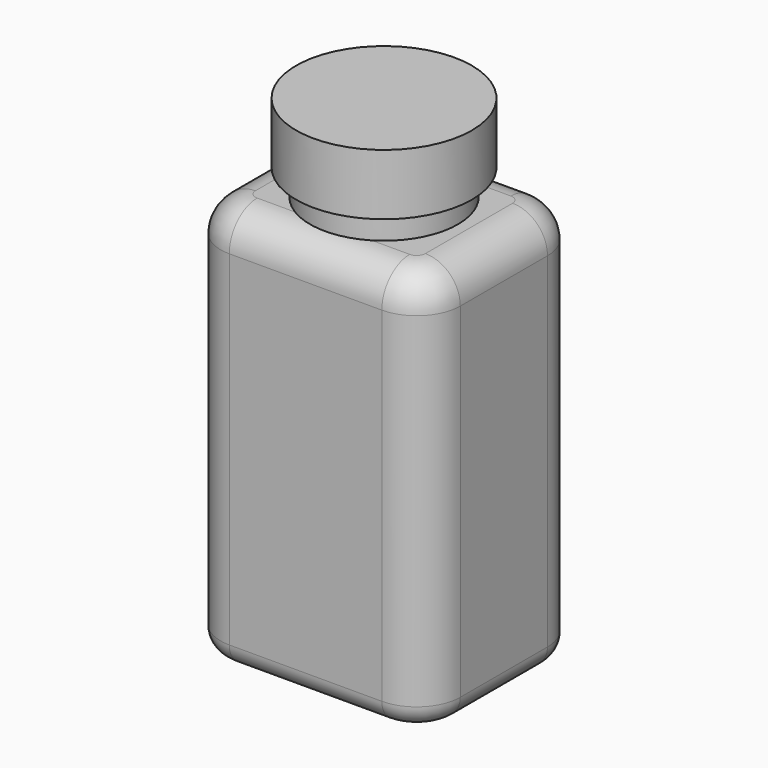
from build123d import *

# Parameters (mm, degrees)
F1_DEPTH = 55.626
F2_R     = 5.08
F3_DEPTH = 2.794
F4_R     = 3.175
F5_R     = 10.770919
F6_DEPTH = 3.81
F7_R     = 12.796254
F8_DEPTH = 8.89


with BuildPart() as f1:
    # F0 (on Top) → F1 (new body)
    with BuildSketch(Plane.XY):
        with BuildLine():
            ThreePointArc((-17.4625, -7.9375), (-15.602628, -12.427628), (-11.1125, -14.2875))
            Line((-11.1125, -14.2875), (11.1125, -14.2875))
            ThreePointArc((11.1125, -14.2875), (15.602628, -12.427628), (17.4625, -7.9375))
            Line((17.4625, -7.9375), (17.4625, 7.9375))
            ThreePointArc((17.4625, 7.9375), (15.602628, 12.427628), (11.1125, 14.2875))
            Line((11.1125, 14.2875), (-11.1125, 14.2875))
            ThreePointArc((-11.1125, 14.2875), (-15.602628, 12.427628), (-17.4625, 7.9375))
            Line((-17.4625, 7.9375), (-17.4625, -7.9375))
        make_face()
    extrude(amount=F1_DEPTH)

    # F2
    f2_edges = [f1.edges().sort_by_distance(p)[0] for p in [
        (15.602628, -12.427628, 55.626),
    ]]
    fillet(f2_edges, radius=F2_R)

    # F0 (on Top) → F3 (join)
    with BuildSketch(Plane.XY):
        with BuildLine():
            ThreePointArc((-17.4625, -7.9375), (-15.602628, -12.427628), (-11.1125, -14.2875))
            Line((-11.1125, -14.2875), (11.1125, -14.2875))
            ThreePointArc((11.1125, -14.2875), (15.602628, -12.427628), (17.4625, -7.9375))
            Line((17.4625, -7.9375), (17.4625, 7.9375))
            ThreePointArc((17.4625, 7.9375), (15.602628, 12.427628), (11.1125, 14.2875))
            Line((11.1125, 14.2875), (-11.1125, 14.2875))
            ThreePointArc((-11.1125, 14.2875), (-15.602628, 12.427628), (-17.4625, 7.9375))
            Line((-17.4625, 7.9375), (-17.4625, -7.9375))
        make_face()
    extrude(amount=-F3_DEPTH)

    # F4
    f4_edges = [f1.edges().sort_by_distance(p)[0] for p in [
        (-15.602628, -12.427628, -2.794),
    ]]
    fillet(f4_edges, radius=F4_R)

    # F5 (on face) → F6 (join)
    with BuildSketch(Plane.XY.offset(55.626)):
        Circle(F5_R)
    extrude(amount=F6_DEPTH)

    # F7 (on face) → F8 (join)
    with BuildSketch(Plane.XY.offset(59.436)):
        Circle(F7_R)
    extrude(amount=F8_DEPTH)


solid = f1.part
